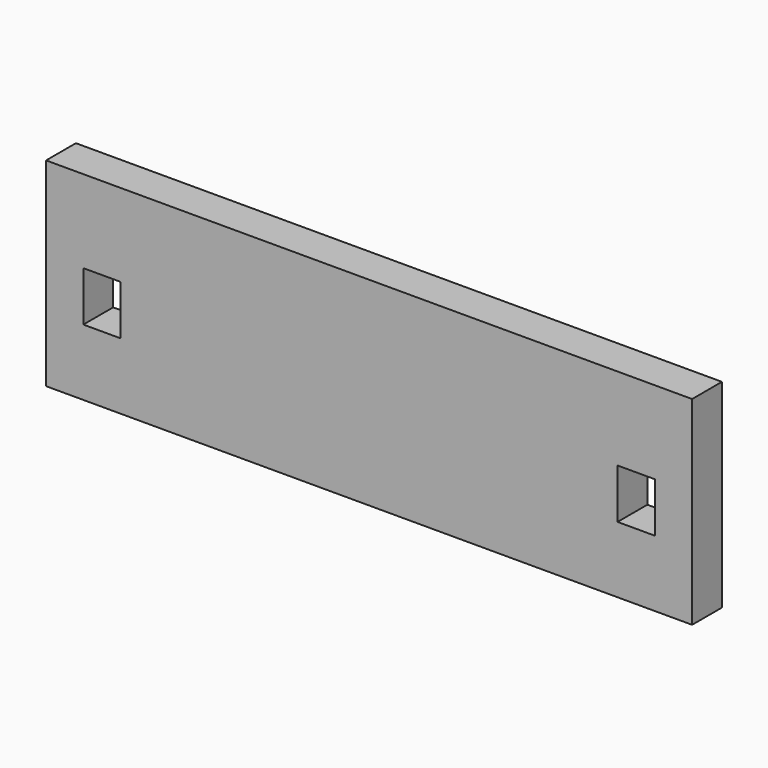
from build123d import *

# Parameters (mm, degrees)
F0_W     = 330.2
F0_H     = 101.6
F1_DEPTH = 19.05


with BuildPart() as f1:
    # F0 (on Front) → F1 (new body)
    with BuildSketch(Plane.XZ):
        with Locations((-165.1, 50.8)):
            Rectangle(F0_W, F0_H)
        Polygon((-311.15, 33.914647), (-311.15, 46.614647), (-311.15, 59.314647), (-292.1, 59.314647), (-292.1, 46.614647), (-292.1, 33.914647), align=None, mode=Mode.SUBTRACT)
        Polygon((-38.1, 33.914647), (-38.1, 46.614647), (-38.1, 59.314647), (-19.05, 59.314647), (-19.05, 46.614647), (-19.05, 33.914647), align=None, mode=Mode.SUBTRACT)
    extrude(amount=F1_DEPTH)


solid = f1.part
